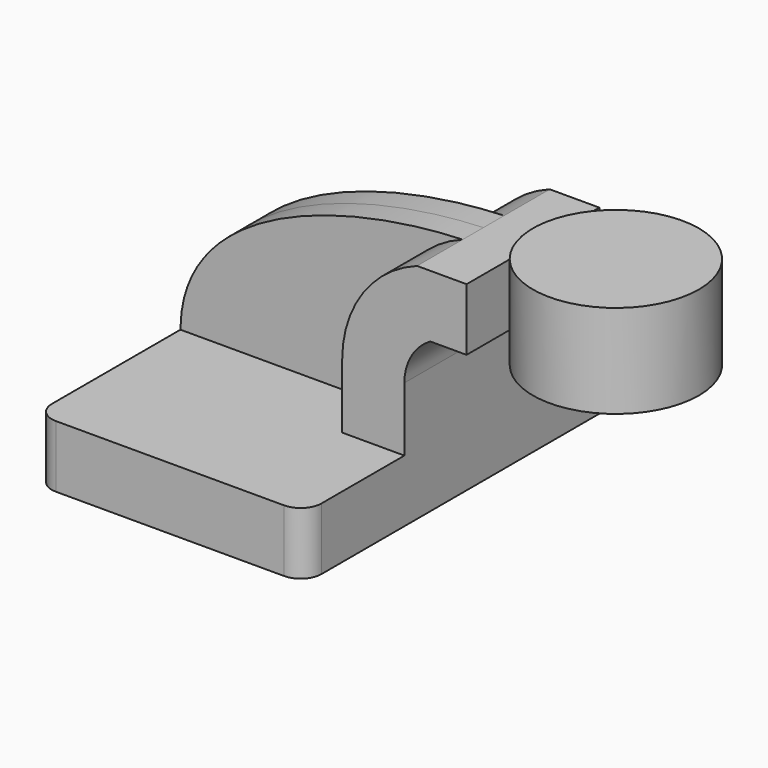
from build123d import *

# Parameters (mm, degrees)
F1_DEPTH = 63.5
F2_DEPTH = 25.4
F4_DEPTH = 7.9375
F5_R     = 6.35


with BuildPart() as f1:
    # F0 (on Front) → F1 (new body, symmetric)
    with BuildSketch(Plane.XZ):
        Polygon((41.275, -9.525), (41.275, 9.525), (22.225, 9.525), (-41.275, 9.525), (-41.275, -9.525), align=None)
    extrude(amount=F1_DEPTH, both=True)

    # F0 (on Front) → F2 (join, symmetric)
    with BuildSketch(Plane.XZ):
        with BuildLine():
            Line((22.225, 9.525), (41.275, 9.525))
            Line((41.275, 9.525), (41.275, 29.122715))
            ThreePointArc((41.275, 29.122715), (43.404014, 37.063968), (49.220008, 42.8752))
            Line((49.220008, 42.8752), (60.325, 42.8752))
            Line((60.325, 42.8752), (60.325, 61.9252))
            Line((60.325, 61.9252), (45.160314, 61.9252))
            ThreePointArc((45.160314, 61.9252), (28.527496, 49.135408), (22.225, 29.122715))
            Line((22.225, 29.122715), (22.225, 9.525))
        make_face()
    extrude(amount=F2_DEPTH, both=True)

    # F0 (on Front) → F3 (revolve)
    with BuildSketch(Plane.XZ):
        Polygon((85.725, 61.9252), (85.725, 42.8752), (85.725, 38.1), (111.125, 38.1), (111.125, 66.675), (85.725, 66.675), align=None)
    revolve(axis=Axis((85.725, 0, 52.3875), (0, 0, -1)))

    # F0 (on Front) → F4 (join, symmetric)
    with BuildSketch(Plane.XZ):
        with BuildLine():
            Line((-41.275, 9.525), (22.225, 9.525))
            Line((22.225, 9.525), (22.225, 29.122715))
            ThreePointArc((22.225, 29.122715), (28.527496, 49.135408), (45.160314, 61.9252))
            add(Edge.make_bspline(
                [(-41.275, 9.525), (-41.11658, 45.629572), (7.848142, 60.545977), (45.160314, 61.9252)],
                knots=[0, 0, 0, 0, 101.078407, 101.078407, 101.078407, 101.078407], degree=3))
        make_face()
    extrude(amount=F4_DEPTH, both=True)

    # F5
    f5_edges = [f1.edges().sort_by_distance(p)[0] for p in [
        (41.275, -63.5, 0),
        (-41.275, -63.5, 0),
        (41.275, 63.5, 0),
        (-41.275, 63.5, 0),
    ]]
    fillet(f5_edges, radius=F5_R)


solid = f1.part
